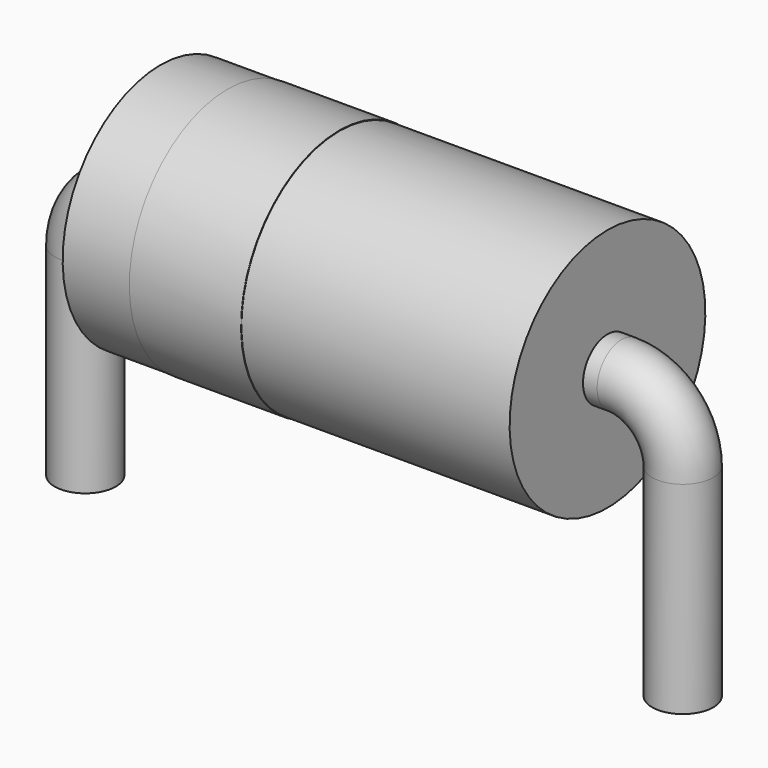
from build123d import *

# Parameters (mm, degrees)
SKETCH002_W = 9.5
SKETCH002_H = 2.6
SKETCH003_W = 2.375
SKETCH003_H = 0.02
SKETCH_R    = 0.65


with BuildPart() as revolution:
    # Sketch002 → Revolution (revolve)
    with BuildSketch(Plane.XZ):
        with Locations((6.35, 4.4)):
            Rectangle(SKETCH002_W, SKETCH002_H)
    revolve(axis=Axis((1.6, 0, 3.1), (1, 0, 0)))


with BuildPart() as revolution001:
    # Sketch003 → Revolution001 (revolve)
    with BuildSketch(Plane.XZ):
        with Locations((4.2125, 5.7)):
            Rectangle(SKETCH003_W, SKETCH003_H)
    revolve(axis=Axis((0, 0, 3.1), (1, 0, 0)))


with BuildPart() as sweep_body:
    # Sweep: sweep along a path in Sketch001
    with BuildLine(Plane.XZ) as sweep_path:
        Line((0, -2.5), (0, 1.8))
        ThreePointArc((0, 1.8), (0.380761, 2.719239), (1.3, 3.1))
        Line((1.3, 3.1), (11.4, 3.1))
        ThreePointArc((11.4, 3.1), (12.319239, 2.719239), (12.7, 1.8))
        Line((12.7, 1.8), (12.7, -2.5))
    # Sketch → Sweep (sweep)
    with BuildSketch(Plane.XY.offset(-2)):
        Circle(SKETCH_R)
    sweep(path=sweep_path.line)


solid = Compound([revolution.part, revolution001.part, sweep_body.part])
